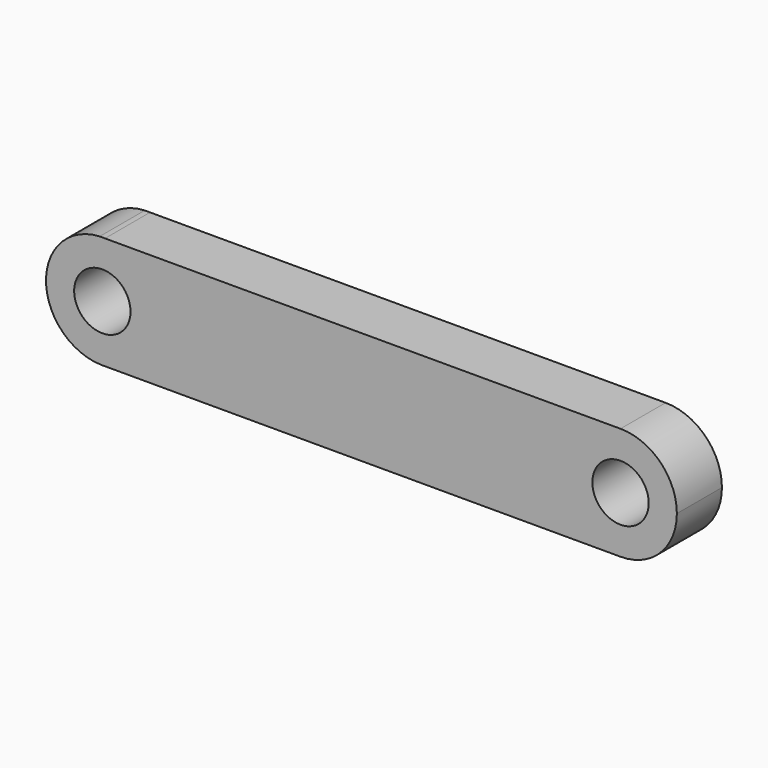
from build123d import *

# Parameters (mm, degrees)
F0_R     = 3.175
F1_DEPTH = 6.35


with BuildPart() as f1:
    # F0 (on Front) → F1 (new body)
    with BuildSketch(Plane.XZ):
        with BuildLine():
            Line((-55.794907, 6.912166), (-56.393981, 6.912093))
            ThreePointArc((-56.393981, 6.912093), (-62.443332, 0.503062), (-56.261799, -5.778576))
            Line((-56.261799, -5.778576), (-55.926036, -5.778589))
            ThreePointArc((-55.926036, -5.778589), (-51.544664, -3.861264), (-49.743676, 0.569198))
            ThreePointArc((-49.743676, 0.569198), (-51.499131, 4.952423), (-55.794907, 6.912166))
        make_face()
        with Locations((-56.093676, 0.569198)):
            Circle(F0_R, mode=Mode.SUBTRACT)
        with BuildLine():
            ThreePointArc((-55.794907, 6.912166), (-56.094445, 6.919198), (-56.393981, 6.912093))
            Line((-56.393981, 6.912093), (-55.794907, 6.912166))
        make_face()
        with BuildLine():
            Line((-55.926036, -5.778589), (-56.261799, -5.778576))
            ThreePointArc((-56.261799, -5.778576), (-56.093917, -5.780802), (-55.926036, -5.778589))
        make_face()
        with BuildLine():
            Line((2.325555, 6.919198), (-55.794907, 6.912166))
            ThreePointArc((-55.794907, 6.912166), (-51.499131, 4.952423), (-49.743676, 0.569198))
            ThreePointArc((-49.743676, 0.569198), (-51.544664, -3.861264), (-55.926036, -5.778589))
            Line((-55.926036, -5.778589), (2.326083, -5.780802))
            ThreePointArc((2.326083, -5.780802), (-4.023676, 0.568935), (2.325555, 6.919198))
        make_face()
        with BuildLine():
            ThreePointArc((8.676324, 0.569198), (6.81618, 5.059598), (2.325555, 6.919198))
            ThreePointArc((2.325555, 6.919198), (-4.023676, 0.568935), (2.326083, -5.780802))
            ThreePointArc((2.326083, -5.780802), (6.816367, -3.921015), (8.676324, 0.569198))
        make_face()
        with Locations((2.326324, 0.569198)):
            Circle(F0_R, mode=Mode.SUBTRACT)
    extrude(amount=F1_DEPTH)


solid = f1.part
